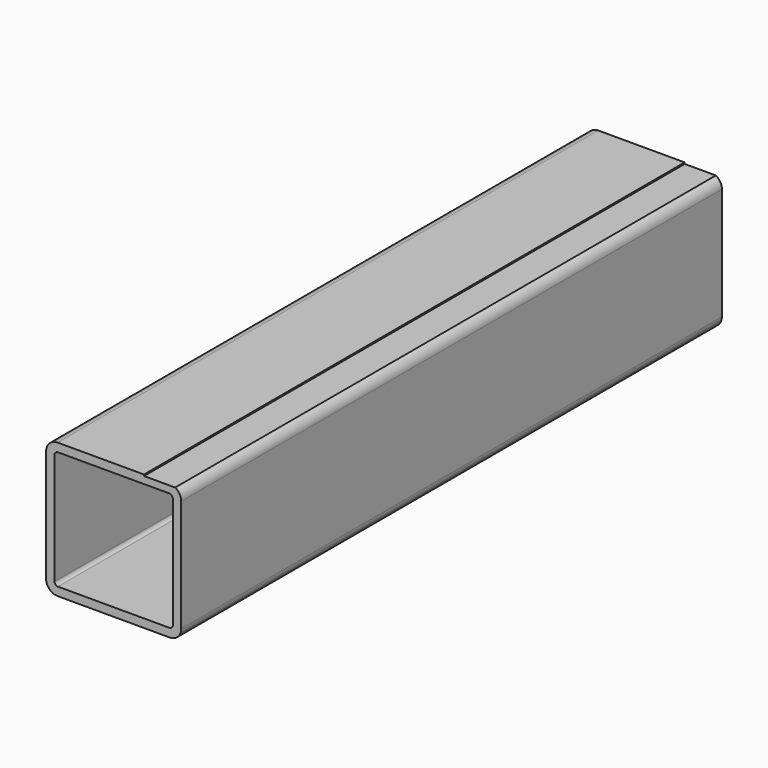
from build123d import *

# Parameters (mm, degrees)
F0_W     = 175
F0_H     = 175
F1_DEPTH = 500
F2_R     = 5
F3_R     = 17
F4_W     = 54.523636
F4_H     = 2
F5_DEPTH = 1000


with BuildPart() as f1:
    # F0 (on Front) → F1 (new body, symmetric)
    with BuildSketch(Plane.XZ):
        Polygon((-102.091885, -11.638668), (-102.091885, -99.190576), (97.908115, -99.190576), (97.908115, 100.809424), (-102.091885, 100.809424), (-102.091885, -11.216699), align=None)
        with Locations((-2.091885, 0.809424)):
            Rectangle(F0_W, F0_H, mode=Mode.SUBTRACT)
    extrude(amount=F1_DEPTH, both=True)

    # F2
    f2_edges = [f1.edges().sort_by_distance(p)[0] for p in [
        (-89.591885, 0, -86.690576),
        (-89.591885, 0, 88.309424),
        (85.408115, 0, 88.309424),
        (85.408115, 0, -86.690576),
    ]]
    fillet(f2_edges, radius=F2_R)

    # F3
    f3_edges = [f1.edges().sort_by_distance(p)[0] for p in [
        (97.908115, 0, 100.809424),
        (-102.091885, 0, 100.809424),
        (-102.091885, 0, -99.190576),
        (97.908115, 0, -99.190576),
    ]]
    fillet(f3_edges, radius=F3_R)

    # F4 (on face) → F5 (cut, through all)
    with BuildSketch(Plane.XZ.offset(500)):
        with Locations((70.071755, 99.809424)):
            Rectangle(F4_W, F4_H)
    extrude(amount=-F5_DEPTH, mode=Mode.SUBTRACT)


solid = f1.part
